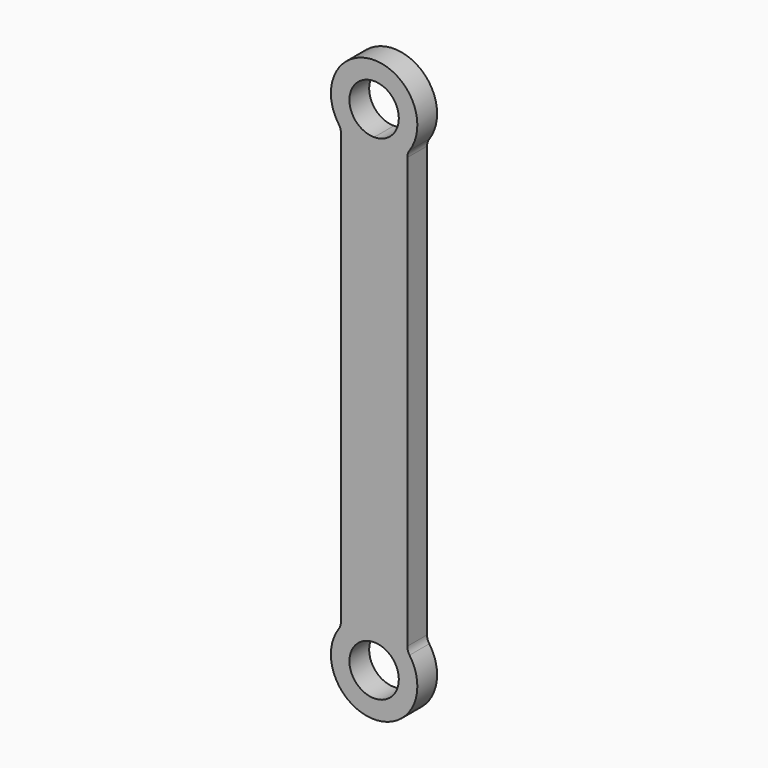
from build123d import *

# Parameters (mm, degrees)
F1_DEPTH = 10


with BuildPart() as f1:
    # F0 (on Front) → F1 (new body)
    with BuildSketch(Plane.XZ):
        with BuildLine():
            ThreePointArc((13.428571, 187.091175), (13.660124, 188.595138), (14.333333, 189.959803))
            ThreePointArc((14.333333, 189.959803), (0, 217.5), (-14.333333, 189.959803))
            ThreePointArc((-14.333333, 189.959803), (-13.660124, 188.595138), (-13.428571, 187.091175))
            Line((-13.428571, 187.091175), (-13.428571, 12.908825))
            ThreePointArc((-13.428571, 12.908825), (-13.660124, 11.404862), (-14.333333, 10.040197))
            ThreePointArc((-14.333333, 10.040197), (0, -17.5), (14.333333, 10.040197))
            ThreePointArc((14.333333, 10.040197), (13.660124, 11.404862), (13.428571, 12.908825))
            Line((13.428571, 12.908825), (13.428571, 187.091175))
        make_face()
        with BuildLine():
            ThreePointArc((0, 10), (7.071068, 7.071068), (10, 0))
            ThreePointArc((10, 0), (-7.071068, -7.071068), (0, 10))
        make_face(mode=Mode.SUBTRACT)
        with BuildLine():
            ThreePointArc((10, 200), (7.071068, 192.928932), (0, 190))
            ThreePointArc((0, 190), (-7.071068, 207.071068), (10, 200))
        make_face(mode=Mode.SUBTRACT)
    extrude(amount=F1_DEPTH)


solid = f1.part
